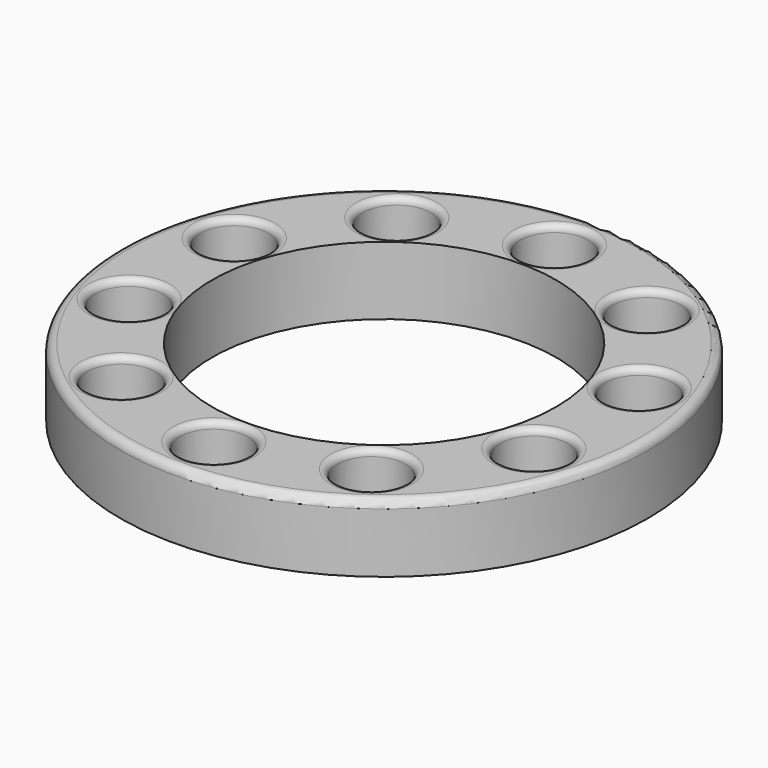
from build123d import *

# Parameters (mm, degrees)
CYLINDER061_R             = 10.1
CYLINDER061_DEPTH         = 4
CYLINDER054_R             = 2
CYLINDER054_DEPTH         = 10
CYLINDER053_R             = 2
CYLINDER053_DEPTH         = 10
FUSION027_PLACEMENT_ANGLE = 54
CYLINDER056_R             = 2
CYLINDER056_DEPTH         = 10
CYLINDER055_R             = 2
CYLINDER055_DEPTH         = 10
FUSION028_PLACEMENT_ANGLE = 162
CYLINDER058_R             = 2
CYLINDER058_DEPTH         = 10
CYLINDER057_R             = 2
CYLINDER057_DEPTH         = 10
FUSION029_PLACEMENT_ANGLE = 126
CYLINDER060_R             = 2
CYLINDER060_DEPTH         = 10
CYLINDER059_R             = 2
CYLINDER059_DEPTH         = 10
FUSION030_PLACEMENT_ANGLE = 90
CYLINDER052_R             = 2
CYLINDER052_DEPTH         = 10
CYLINDER051_R             = 2
CYLINDER051_DEPTH         = 10
FUSION026_PLACEMENT_ANGLE = 18
CYLINDER050_R             = 15.5
CYLINDER050_DEPTH         = 4
FILLET004_R               = 0.39
FILLET003_R               = 0.49


with BuildPart() as cylinder061:
    # Cylinder061 → Cylinder061 (new body)
    with BuildSketch(Plane.XY.offset(22)):
        Circle(CYLINDER061_R)
    extrude(amount=CYLINDER061_DEPTH)


with BuildPart() as cylinder054:
    # Cylinder054 → Cylinder054 (new body)
    with BuildSketch(Plane(origin=(-12.5, 0, 13), x_dir=(1, 0, 0), z_dir=(0, 0, 1))):
        Circle(CYLINDER054_R)
    extrude(amount=CYLINDER054_DEPTH)


with BuildPart() as fusion027:
    # Cylinder053 → Cylinder053 (new body)
    with BuildSketch(Plane(origin=(12.5, 0, 13), x_dir=(1, 0, 0), z_dir=(0, 0, 1))):
        Circle(CYLINDER053_R)
    extrude(amount=CYLINDER053_DEPTH)

    # Fusion027: union Cylinder054
    add(cylinder054.part)


with BuildPart() as fusion027_1:
    # Fusion027 placement: moved
    add(fusion027.part.rotate(Axis((0, 0, 0), (0, 0, 1)), FUSION027_PLACEMENT_ANGLE))


with BuildPart() as cylinder056:
    # Cylinder056 → Cylinder056 (new body)
    with BuildSketch(Plane(origin=(-12.5, 0, 13), x_dir=(1, 0, 0), z_dir=(0, 0, 1))):
        Circle(CYLINDER056_R)
    extrude(amount=CYLINDER056_DEPTH)


with BuildPart() as fusion028:
    # Cylinder055 → Cylinder055 (new body)
    with BuildSketch(Plane(origin=(12.5, 0, 13), x_dir=(1, 0, 0), z_dir=(0, 0, 1))):
        Circle(CYLINDER055_R)
    extrude(amount=CYLINDER055_DEPTH)

    # Fusion028: union Cylinder056
    add(cylinder056.part)


with BuildPart() as fusion028_1:
    # Fusion028 placement: moved
    add(fusion028.part.rotate(Axis((0, 0, 0), (0, 0, 1)), FUSION028_PLACEMENT_ANGLE))


with BuildPart() as cylinder058:
    # Cylinder058 → Cylinder058 (new body)
    with BuildSketch(Plane(origin=(-12.5, 0, 13), x_dir=(1, 0, 0), z_dir=(0, 0, 1))):
        Circle(CYLINDER058_R)
    extrude(amount=CYLINDER058_DEPTH)


with BuildPart() as fusion029:
    # Cylinder057 → Cylinder057 (new body)
    with BuildSketch(Plane(origin=(12.5, 0, 13), x_dir=(1, 0, 0), z_dir=(0, 0, 1))):
        Circle(CYLINDER057_R)
    extrude(amount=CYLINDER057_DEPTH)

    # Fusion029: union Cylinder058
    add(cylinder058.part)


with BuildPart() as fusion029_1:
    # Fusion029 placement: moved
    add(fusion029.part.rotate(Axis((0, 0, 0), (0, 0, 1)), FUSION029_PLACEMENT_ANGLE))


with BuildPart() as cylinder060:
    # Cylinder060 → Cylinder060 (new body)
    with BuildSketch(Plane(origin=(-12.5, 0, 13), x_dir=(1, 0, 0), z_dir=(0, 0, 1))):
        Circle(CYLINDER060_R)
    extrude(amount=CYLINDER060_DEPTH)


with BuildPart() as fusion030:
    # Cylinder059 → Cylinder059 (new body)
    with BuildSketch(Plane(origin=(12.5, 0, 13), x_dir=(1, 0, 0), z_dir=(0, 0, 1))):
        Circle(CYLINDER059_R)
    extrude(amount=CYLINDER059_DEPTH)

    # Fusion030: union Cylinder060
    add(cylinder060.part)


with BuildPart() as fusion030_1:
    # Fusion030 placement: moved
    add(fusion030.part.rotate(Axis((0, 0, 0), (0, 0, 1)), FUSION030_PLACEMENT_ANGLE))


with BuildPart() as cylinder052:
    # Cylinder052 → Cylinder052 (new body)
    with BuildSketch(Plane(origin=(-12.5, 0, 13), x_dir=(1, 0, 0), z_dir=(0, 0, 1))):
        Circle(CYLINDER052_R)
    extrude(amount=CYLINDER052_DEPTH)


with BuildPart() as fusion025:
    # Cylinder051 → Cylinder051 (new body)
    with BuildSketch(Plane(origin=(12.5, 0, 13), x_dir=(1, 0, 0), z_dir=(0, 0, 1))):
        Circle(CYLINDER051_R)
    extrude(amount=CYLINDER051_DEPTH)

    # Fusion026: union Cylinder052
    add(cylinder052.part)


with BuildPart() as fusion025_1:
    # Fusion026 placement: moved
    add(fusion025.part.rotate(Axis((0, 0, 0), (0, 0, 1)), FUSION026_PLACEMENT_ANGLE))

    # Fusion025: union Fusion027, Fusion028, Fusion029, Fusion030
    add(fusion027_1.part)
    add(fusion028_1.part)
    add(fusion029_1.part)
    add(fusion030_1.part)


with BuildPart() as fusion025_2:
    # Fusion025 placement: moved
    add(fusion025_1.part.moved(Location((0, 0, 9))))


with BuildPart() as hub_bolts_cover_front:
    # Cylinder050 → Cylinder050 (new body)
    with BuildSketch(Plane.XY.offset(22)):
        Circle(CYLINDER050_R)
    extrude(amount=CYLINDER050_DEPTH)

    # Cut015: cut Fusion025
    add(fusion025_2.part, mode=Mode.SUBTRACT)

    # Fillet004
    fillet004_edges = [hub_bolts_cover_front.edges().sort_by_distance(p)[0] for p in [
        (0, 10.5, 26),
        (8.522886, -11.730746, 26),
        (9.986093, 3.244678, 26),
        (-8.522886, -11.730746, 26),
        (6.171745, 8.494678, 26),
        (13.790319, -4.480746, 26),
        (-13.790319, -4.480746, 26),
        (-6.171745, 8.494678, 26),
        (-9.986093, 3.244678, 26),
        (0, -14.5, 26),
    ]]
    fillet(fillet004_edges, radius=FILLET004_R)

    # Cut014: cut Cylinder061
    add(cylinder061.part, mode=Mode.SUBTRACT)

    # Fillet003
    fillet003_edges = [hub_bolts_cover_front.edges().sort_by_distance(p)[0] for p in [
        (-15.5, 0, 26),
    ]]
    fillet(fillet003_edges, radius=FILLET003_R)


solid = hub_bolts_cover_front.part
